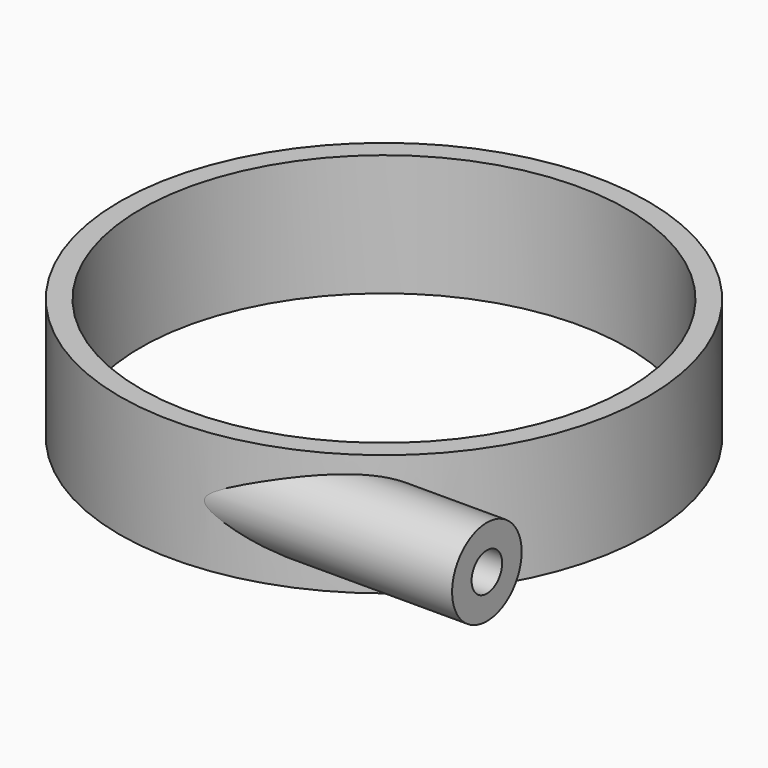
from build123d import *

# Parameters (mm, degrees)
F0_R     = 152
F1_DEPTH = 70
F2_R     = 25
F3_DEPTH = 160
F4_R     = 140
F5_DEPTH = 70
F6_R     = 11
F7_DEPTH = 161.8


with BuildPart() as f1:
    # F0 (on Top) → F1 (new body)
    with BuildSketch(Plane.XY):
        Circle(F0_R)
    extrude(amount=F1_DEPTH)

    # F2 (on Right) → F3 (join)
    with BuildSketch(Plane.YZ):
        with Locations((-126, 35)):
            Circle(F2_R)
    extrude(amount=F3_DEPTH)

    # F4 (on face) → F5 (cut)
    with BuildSketch(Plane.XY.offset(70)):
        Circle(F4_R)
    extrude(amount=-F5_DEPTH, mode=Mode.SUBTRACT)

    # F6 (on face) → F7 (cut)
    with BuildSketch(Plane.YZ.offset(160)):
        with Locations((-126, 35)):
            Circle(F6_R)
    extrude(amount=-F7_DEPTH, mode=Mode.SUBTRACT)


solid = f1.part
